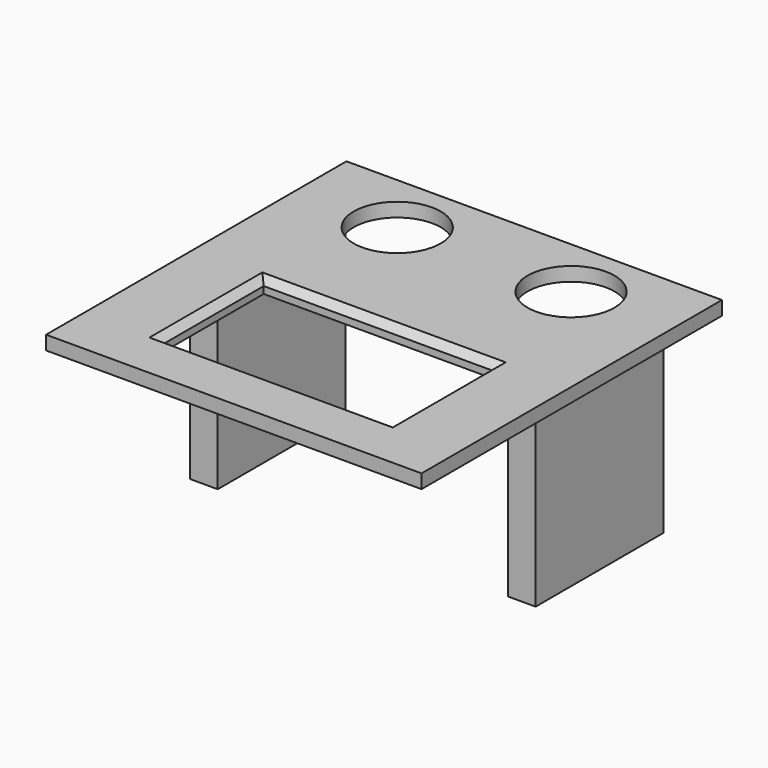
from build123d import *

# Parameters (mm, degrees)
SKETCH009_W     = 54
SKETCH009_H     = 54
PAD002_DEPTH    = 2
SKETCH008_R     = 6.25
SKETCH008_W     = 33
SKETCH008_H     = 18.3
POCKET006_DEPTH = 2
SKETCH013_R     = 1.5
PAD004_DEPTH    = 1.5
SKETCH014_W     = 4
SKETCH014_H     = 23
PAD005_DEPTH    = 25
CHAMFER001_SIZE = 1


with BuildPart() as part:
    # Sketch009 → Pad002 (new body)
    with BuildSketch(Plane.XY):
        Rectangle(SKETCH009_W, SKETCH009_H)
    extrude(amount=PAD002_DEPTH)

    # Sketch008 (on Face6 of Pad002) → Pocket006 (cut)
    with BuildSketch(Plane.XY.offset(2)):
        with Locations((-12.5, 18)):
            Circle(SKETCH008_R)
        with Locations((12.5, 18)):
            Circle(SKETCH008_R)
        with Locations((0, -10.15)):
            Rectangle(SKETCH008_W, SKETCH008_H)
    extrude(amount=-POCKET006_DEPTH, mode=Mode.SUBTRACT)

    # Sketch013 (on Face4 of Pocket006) → Pad004 (join)
    with BuildSketch(Plane(origin=(0, 0, 0), x_dir=(1, 0, 0), z_dir=(0, 0, -1))):
        with Locations((-15.24, 21.71)):
            Circle(SKETCH013_R)
        with Locations((15.24, 21.71)):
            Circle(SKETCH013_R)
        with Locations((15.24, -6.23)):
            Circle(SKETCH013_R)
        with Locations((-15.24, -6.23)):
            Circle(SKETCH013_R)
    extrude(amount=PAD004_DEPTH)

    # Sketch014 (on Face4 of Pad004) → Pad005 (join)
    with BuildSketch(Plane(origin=(0, 0, 0), x_dir=(1, 0, 0), z_dir=(0, 0, -1))):
        with Locations((-22.86, -7.68)):
            Rectangle(SKETCH014_W, SKETCH014_H)
        with Locations((22.86, -7.68)):
            Rectangle(SKETCH014_W, SKETCH014_H)
    extrude(amount=PAD005_DEPTH)

    # Chamfer001
    chamfer001_edges = [part.edges().sort_by_distance(p)[0] for p in [
        (0, -19.3, 2),
        (-16.5, -10.15, 2),
        (0, -1, 2),
        (16.5, -10.15, 2),
    ]]
    chamfer(chamfer001_edges, length=CHAMFER001_SIZE)


solid = part.part
